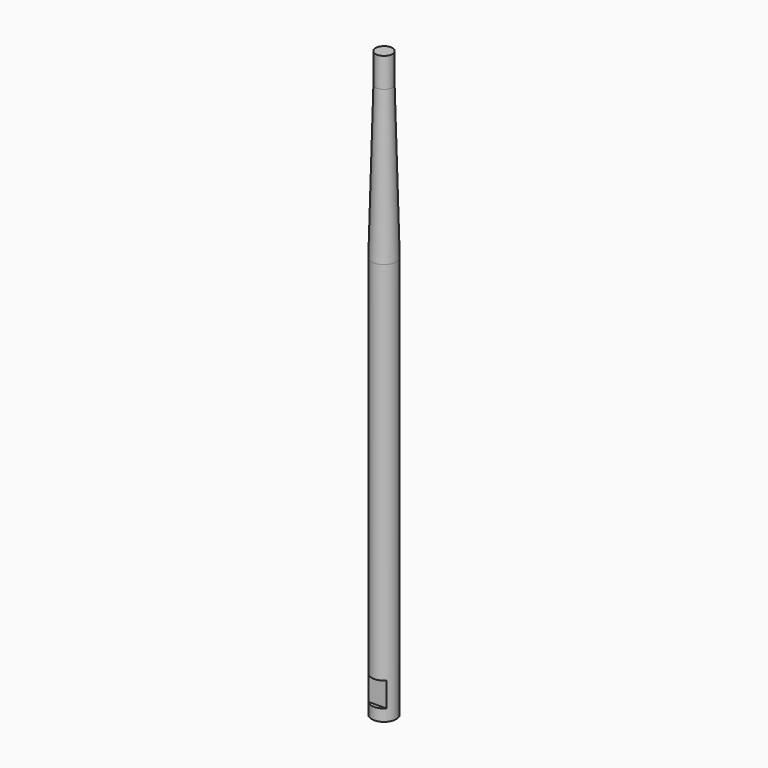
from build123d import *

# Parameters (mm, degrees)
F3_W     = 3.175
F3_H     = 3.175
F4_DEPTH = 1.27


with BuildPart() as f1:
    # F0 (on Front) → F1 (revolve)
    with BuildSketch(Plane.XZ):
        Polygon((0, 75.438), (0, 0), (1.5875, 0), (1.5875, 51.985766), (1.07315, 71.628), (1.07315, 75.438), align=None)
    revolve(axis=Axis((0, 0, 37.719), (0, 0, 1)))

    # F3 (on offset) → F4 (cut)
    with BuildSketch(Plane.XZ.offset(1.0795)):
        with Locations((0, 3.1115)):
            Rectangle(F3_W, F3_H)
    extrude(amount=F4_DEPTH, mode=Mode.SUBTRACT)


solid = f1.part
